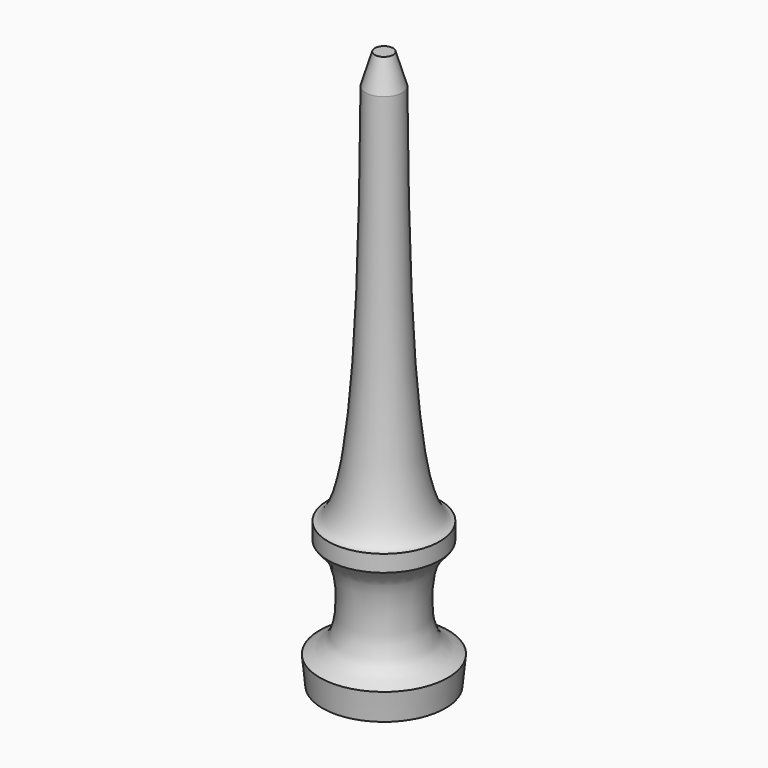
from build123d import *

# Parameters (mm, degrees)
F0_W = 15.875
F0_H = 4.7498


with BuildPart() as f1:
    # F0 (on Front) → F1 (revolve)
    with BuildSketch(Plane.XZ):
        with Locations((-7.9375, -30.3143975992)):
            Rectangle(F0_W, F0_H)
        with BuildLine():
            Line((-18.2499, -61.2642975992), (0, -61.2642975992))
            Line((0, -61.2642975992), (0, -32.6892975992))
            Line((0, -32.6892975992), (-15.875, -32.6892975992))
            add(Edge.make_bspline(
                [(-15.875, -32.6892975992), (-15.2979500412, -33.807611658), (-10.4821920255, -36.3577085762), (-9.7072227265, -58.4415786457), (-16.6218308083, -60.254956053), (-18.2499, -61.2642975992)],
                knots=[0, 0, 0, 0, 0.2505438775, 0.7149239973, 1, 1, 1, 1], degree=3))
        make_face()
        with BuildLine():
            Line((-15.875, -27.9394975992), (0, -27.9394975992))
            Line((0, -27.9394975992), (0, 89.5609024008))
            Line((0, 89.5609024008), (-2.6035, 89.5609024008))
            Line((-2.6035, 89.5609024008), (-5.207, 80.9503024008))
            add(Edge.make_bspline(
                [(-5.207, 80.9503024008), (-5.640507995, 22.4602864435), (-7.2317328357, -26.2209816068), (-15.875, -27.9394975992)],
                knots=[0, 0, 0, 0, 0.5514143677, 0.5514143677, 0.5514143677, 0.5514143677], degree=3))
        make_face()
        Polygon((-17.4625, -69.1890975992), (0, -69.1890975992), (0, -61.2642975992), (-18.2499, -61.2642975992), align=None)
    revolve(axis=Axis((0, 0, 10.1859024008), (0, 0, -1)))


solid = f1.part
